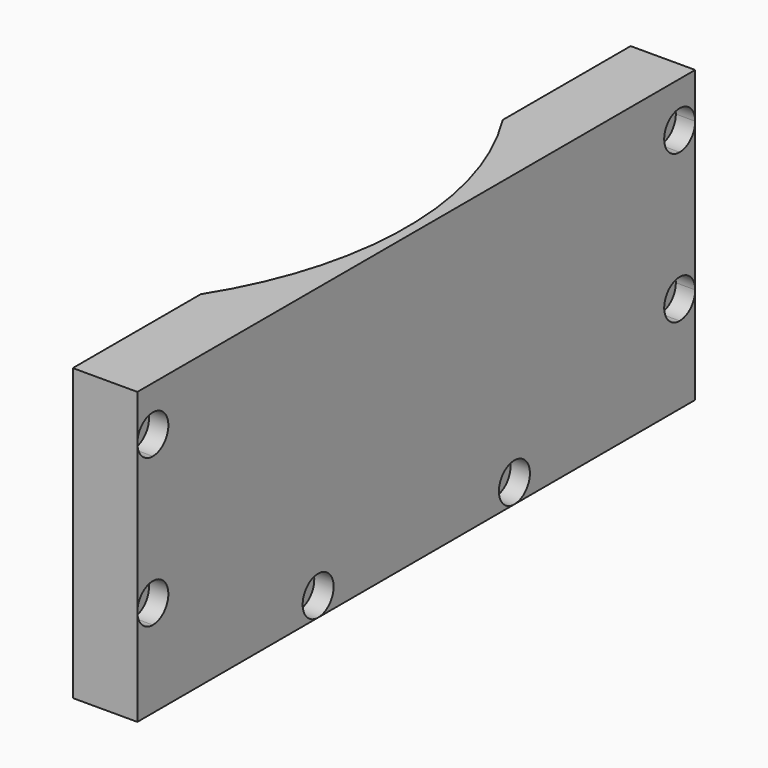
from build123d import *

# Parameters (mm, degrees)
CYLINDER294_R     = 54.5
CYLINDER294_DEPTH = 28
CYLINDER289_R     = 1.5
CYLINDER289_DEPTH = 20
CYLINDER290_R     = 1.5
CYLINDER290_DEPTH = 20
CYLINDER291_R     = 1.5
CYLINDER291_DEPTH = 20
CYLINDER292_R     = 1.5
CYLINDER292_DEPTH = 20
CYLINDER293_R     = 1.5
CYLINDER293_DEPTH = 20
CYLINDER288_R     = 1.5
CYLINDER288_DEPTH = 20
CYLINDER299_R     = 3
CYLINDER299_DEPTH = 3
CYLINDER298_R     = 3
CYLINDER298_DEPTH = 3
CYLINDER297_R     = 3
CYLINDER297_DEPTH = 3
CYLINDER296_R     = 3
CYLINDER296_DEPTH = 3
CYLINDER295_R     = 3
CYLINDER295_DEPTH = 3
CYLINDER300_R     = 3
CYLINDER300_DEPTH = 3
BOX133_W          = 10
BOX133_H          = 108
BOX133_DEPTH      = 45


with BuildPart() as obj1:
    # Cylinder294 → Cylinder294 (new body)
    with BuildSketch(Plane.XY.offset(9)):
        Circle(CYLINDER294_R)
    extrude(amount=CYLINDER294_DEPTH)


with BuildPart() as obj2:
    # Cylinder289 → Cylinder289 (new body)
    with BuildSketch(Plane(origin=(45, -19, -5), x_dir=(0, 0, -1), z_dir=(1, 0, 0))):
        Circle(CYLINDER289_R)
    extrude(amount=CYLINDER289_DEPTH)


with BuildPart() as obj3:
    # Cylinder290 → Cylinder290 (new body)
    with BuildSketch(Plane(origin=(45, 51, 7), x_dir=(0, 0, -1), z_dir=(1, 0, 0))):
        Circle(CYLINDER290_R)
    extrude(amount=CYLINDER290_DEPTH)


with BuildPart() as obj4:
    # Cylinder291 → Cylinder291 (new body)
    with BuildSketch(Plane(origin=(45, -51, 7), x_dir=(0, 0, -1), z_dir=(1, 0, 0))):
        Circle(CYLINDER291_R)
    extrude(amount=CYLINDER291_DEPTH)


with BuildPart() as obj5:
    # Cylinder292 → Cylinder292 (new body)
    with BuildSketch(Plane(origin=(45, -51, 30), x_dir=(0, 0, -1), z_dir=(1, 0, 0))):
        Circle(CYLINDER292_R)
    extrude(amount=CYLINDER292_DEPTH)


with BuildPart() as obj6:
    # Cylinder293 → Cylinder293 (new body)
    with BuildSketch(Plane(origin=(45, 51, 30), x_dir=(0, 0, -1), z_dir=(1, 0, 0))):
        Circle(CYLINDER293_R)
    extrude(amount=CYLINDER293_DEPTH)


with BuildPart() as compound582:
    # Cylinder288 → Cylinder288 (new body)
    with BuildSketch(Plane(origin=(45, 19, -5), x_dir=(0, 0, -1), z_dir=(1, 0, 0))):
        Circle(CYLINDER288_R)
    extrude(amount=CYLINDER288_DEPTH)

    # Compound582: union obj2, obj3, obj4, obj5, obj6
    add(obj2.part)
    add(obj3.part)
    add(obj4.part)
    add(obj5.part)
    add(obj6.part)


with BuildPart() as obj7:
    # Cylinder299 → Cylinder299 (new body)
    with BuildSketch(Plane(origin=(53, -19, -5), x_dir=(0, 0, -1), z_dir=(1, 0, 0))):
        Circle(CYLINDER299_R)
    extrude(amount=CYLINDER299_DEPTH)


with BuildPart() as obj8:
    # Cylinder298 → Cylinder298 (new body)
    with BuildSketch(Plane(origin=(53, 51, 7), x_dir=(0, 0, -1), z_dir=(1, 0, 0))):
        Circle(CYLINDER298_R)
    extrude(amount=CYLINDER298_DEPTH)


with BuildPart() as obj9:
    # Cylinder297 → Cylinder297 (new body)
    with BuildSketch(Plane(origin=(53, -51, 7), x_dir=(0, 0, -1), z_dir=(1, 0, 0))):
        Circle(CYLINDER297_R)
    extrude(amount=CYLINDER297_DEPTH)


with BuildPart() as obj10:
    # Cylinder296 → Cylinder296 (new body)
    with BuildSketch(Plane(origin=(53, -51, 30), x_dir=(0, 0, -1), z_dir=(1, 0, 0))):
        Circle(CYLINDER296_R)
    extrude(amount=CYLINDER296_DEPTH)


with BuildPart() as obj11:
    # Cylinder295 → Cylinder295 (new body)
    with BuildSketch(Plane(origin=(53, 51, 30), x_dir=(0, 0, -1), z_dir=(1, 0, 0))):
        Circle(CYLINDER295_R)
    extrude(amount=CYLINDER295_DEPTH)


with BuildPart() as compound583:
    # Cylinder300 → Cylinder300 (new body)
    with BuildSketch(Plane(origin=(53, 19, -5), x_dir=(0, 0, -1), z_dir=(1, 0, 0))):
        Circle(CYLINDER300_R)
    extrude(amount=CYLINDER300_DEPTH)

    # Compound583: union obj7, obj8, obj9, obj10, obj11
    add(obj7.part)
    add(obj8.part)
    add(obj9.part)
    add(obj10.part)
    add(obj11.part)


with BuildPart() as cut359:
    # Box133 → Box133 (new body)
    with BuildSketch(Plane(origin=(46, -54, -8), x_dir=(1, 0, 0), z_dir=(0, 0, 1))):
        with Locations((5, 54)):
            Rectangle(BOX133_W, BOX133_H)
    extrude(amount=BOX133_DEPTH)

    # Cut358: cut Compound583
    add(compound583.part, mode=Mode.SUBTRACT)

    # Cut360: cut Compound582
    add(compound582.part, mode=Mode.SUBTRACT)

    # Cut359: cut obj1
    add(obj1.part, mode=Mode.SUBTRACT)


solid = cut359.part
